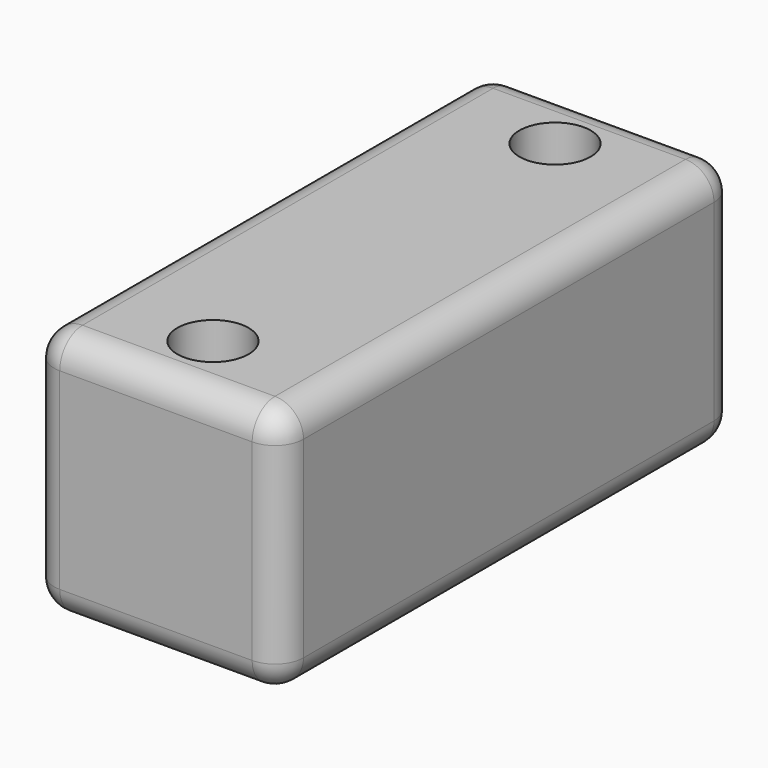
from build123d import *

# Parameters (mm, degrees)
F0_W     = 44.45
F0_H     = 101.6
F1_DEPTH = 44.45
F2_R     = 6.35
F3_DEPTH = 59.69
F4_R     = 5.08
F5_R     = 5.08


with BuildPart() as f1:
    # F0 (on Top) → F1 (new body)
    with BuildSketch(Plane.XY):
        with Locations((22.225, -50.8)):
            Rectangle(F0_W, F0_H)
    extrude(amount=F1_DEPTH)

    # F2 (on face) → F3 (cut)
    with BuildSketch(Plane.XY.offset(44.45)):
        with Locations((22.225, -12.7)):
            Circle(F2_R)
        with Locations((22.225, -88.9)):
            Circle(F2_R)
    extrude(amount=-F3_DEPTH, mode=Mode.SUBTRACT)

    # F4
    f4_edges = [f1.edges().sort_by_distance(p)[0] for p in [
        (44.45, -50.8, 44.45),
        (44.45, -50.8, 0),
        (0, -50.8, 0),
        (0, -50.8, 44.45),
    ]]
    fillet(f4_edges, radius=F4_R)

    # F5
    f5_edges = [f1.edges().sort_by_distance(p)[0] for p in [
        (44.45, 0, 22.225),
        (42.962102, 0, 1.487898),
        (42.962102, 0, 42.962102),
        (22.225, 0, 0),
        (22.225, 0, 44.45),
        (1.487898, 0, 1.487898),
        (1.487898, 0, 42.962102),
        (0, 0, 22.225),
        (0, -101.6, 22.225),
        (1.487898, -101.6, 1.487898),
        (1.487898, -101.6, 42.962102),
        (22.225, -101.6, 0),
        (22.225, -101.6, 44.45),
        (42.962102, -101.6, 1.487898),
        (42.962102, -101.6, 42.962102),
        (44.45, -101.6, 22.225),
    ]]
    fillet(f5_edges, radius=F5_R)


solid = f1.part
